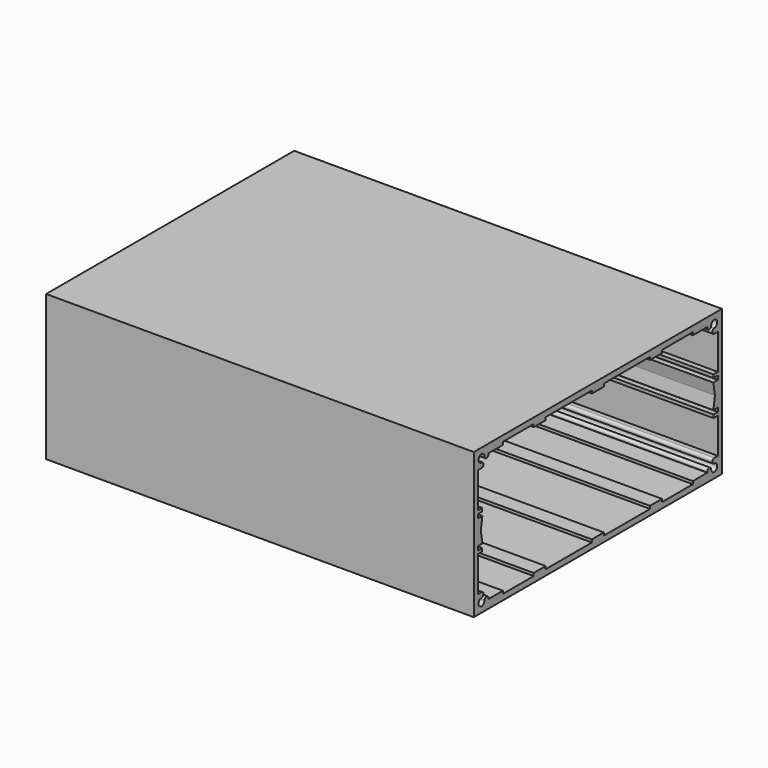
from build123d import *

# Parameters (mm, degrees)
F0_W     = 145
F0_H     = 68
F1_DEPTH = 200


with BuildPart() as f1:
    # F0 (on Right) → F1 (new body)
    with BuildSketch(Plane.YZ):
        with Locations((72.5, 34)):
            Rectangle(F0_W, F0_H)
        with BuildLine():
            Line((69, 64), (72.5, 64))
            Line((72.5, 64), (76, 64))
            Line((76, 64), (76, 65.3))
            Line((76, 65.3), (103, 65.3))
            Line((103, 65.3), (103, 64))
            Line((103, 64), (110, 64))
            Line((110, 64), (110, 65.3))
            Line((110, 65.3), (128, 65.3))
            Line((128, 65.3), (128, 64))
            Line((128, 64), (136.45, 64))
            Line((136.45, 64), (136.45, 63.6))
            ThreePointArc((136.45, 63.6), (137.6, 62.45), (138.75, 63.6))
            ThreePointArc((138.75, 63.6), (141.7374368671, 64.8374368671), (140.5, 61.85))
            ThreePointArc((140.5, 61.85), (139.35, 60.7), (140.5, 59.55))
            Line((140.5, 59.55), (142.6, 59.55))
            Line((142.6, 59.55), (142.6, 43))
            Line((142.6, 43), (140.0795047916, 43))
            Line((140.0795047916, 43), (140.0795047916, 41.5))
            Line((140.0795047916, 41.5), (142.6, 41.5))
            Line((142.6, 41.5), (142.6, 39.6823763632))
            Line((142.6, 39.6823763632), (140, 39.6823763632))
            Line((140, 39.6823763632), (140.9, 34))
            Line((140.9, 34), (140, 28.3176236368))
            Line((140, 28.3176236368), (142.6, 28.3176236368))
            Line((142.6, 28.3176236368), (142.6, 26.5))
            Line((142.6, 26.5), (140.0795047916, 26.5))
            Line((140.0795047916, 26.5), (140.0795047916, 25))
            Line((140.0795047916, 25), (142.6, 25))
            Line((142.6, 25), (142.6, 8.45))
            Line((142.6, 8.45), (140.5, 8.45))
            ThreePointArc((140.5, 8.45), (139.35, 7.3), (140.5, 6.15))
            ThreePointArc((140.5, 6.15), (141.7374368671, 3.1625631329), (138.75, 4.4))
            ThreePointArc((138.75, 4.4), (137.6, 5.55), (136.45, 4.4))
            Line((136.45, 4.4), (136.45, 4))
            Line((136.45, 4), (128, 4))
            Line((128, 4), (128, 2.7))
            Line((128, 2.7), (110, 2.7))
            Line((110, 2.7), (110, 4))
            Line((110, 4), (103, 4))
            Line((103, 4), (103, 2.7))
            Line((103, 2.7), (76, 2.7))
            Line((76, 2.7), (76, 4))
            Line((76, 4), (72.5, 4))
            Line((72.5, 4), (69, 4))
            Line((69, 4), (69, 2.7))
            Line((69, 2.7), (42, 2.7))
            Line((42, 2.7), (42, 4))
            Line((42, 4), (35, 4))
            Line((35, 4), (35, 2.7))
            Line((35, 2.7), (17, 2.7))
            Line((17, 2.7), (17, 4))
            Line((17, 4), (8.55, 4))
            Line((8.55, 4), (8.55, 4.4))
            ThreePointArc((8.55, 4.4), (7.4, 5.55), (6.25, 4.4))
            ThreePointArc((6.25, 4.4), (3.2625631329, 3.1625631329), (4.5, 6.15))
            ThreePointArc((4.5, 6.15), (5.65, 7.3), (4.5, 8.45))
            Line((4.5, 8.45), (2.4, 8.45))
            Line((2.4, 8.45), (2.4, 25))
            Line((2.4, 25), (4.9204952084, 25))
            Line((4.9204952084, 25), (4.9204952084, 26.5))
            Line((4.9204952084, 26.5), (2.4, 26.5))
            Line((2.4, 26.5), (2.4, 28.3176236368))
            Line((2.4, 28.3176236368), (5, 28.3176236368))
            Line((5, 28.3176236368), (4.1, 34))
            Line((4.1, 34), (5, 39.6823763632))
            Line((5, 39.6823763632), (2.4, 39.6823763632))
            Line((2.4, 39.6823763632), (2.4, 41.5))
            Line((2.4, 41.5), (4.9204952084, 41.5))
            Line((4.9204952084, 41.5), (4.9204952084, 43))
            Line((4.9204952084, 43), (2.4, 43))
            Line((2.4, 43), (2.4, 59.55))
            Line((2.4, 59.55), (4.5, 59.55))
            ThreePointArc((4.5, 59.55), (5.65, 60.7), (4.5, 61.85))
            ThreePointArc((4.5, 61.85), (3.2625631329, 64.8374368671), (6.25, 63.6))
            ThreePointArc((6.25, 63.6), (7.4, 62.45), (8.55, 63.6))
            Line((8.55, 63.6), (8.55, 64))
            Line((8.55, 64), (17, 64))
            Line((17, 64), (17, 65.3))
            Line((17, 65.3), (35, 65.3))
            Line((35, 65.3), (35, 64))
            Line((35, 64), (42, 64))
            Line((42, 64), (42, 65.3))
            Line((42, 65.3), (69, 65.3))
            Line((69, 65.3), (69, 64))
        make_face(mode=Mode.SUBTRACT)
    extrude(amount=F1_DEPTH)


solid = f1.part
